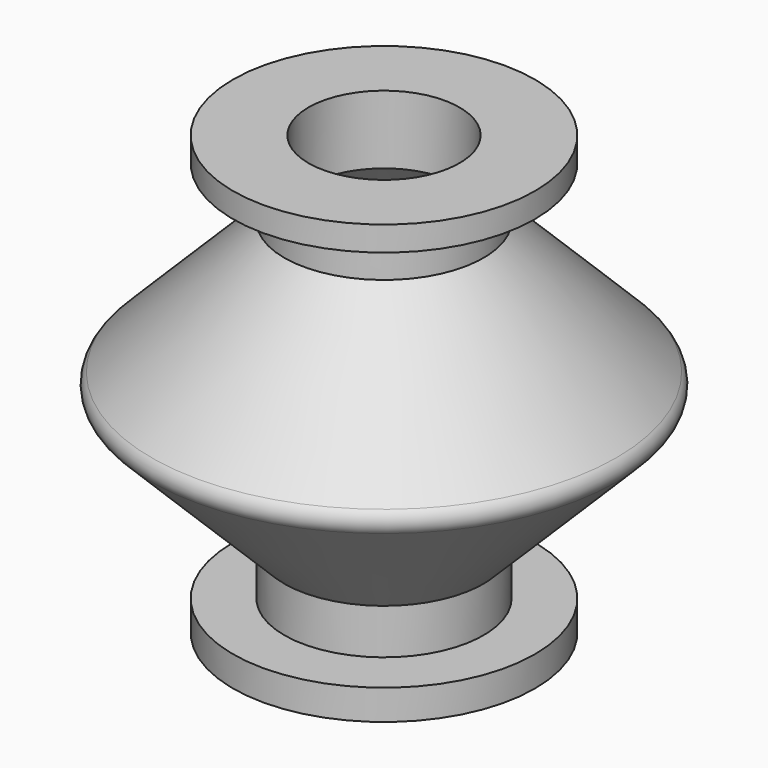
from build123d import *


with BuildPart() as f1:
    # F0 (on Front) → F1 (revolve)
    with BuildSketch(Plane.XZ):
        with BuildLine():
            Line((-2.5, 4.984315), (-2.5, 7.25))
            Line((-2.5, 7.25), (-5, 7.25))
            Line((-5, 7.25), (-5, 6.431355))
            Line((-5, 6.431355), (-3.3, 6.086036))
            Line((-3.3, 6.086036), (-3.3, 4.75))
            Line((-3.3, 4.75), (-7.696447, 0.353553))
            ThreePointArc((-7.696447, 0.353553), (-7.842893, 0), (-7.696447, -0.353553))
            Line((-7.696447, -0.353553), (-3.3, -4.75))
            Line((-3.3, -4.75), (-3.3, -6.25))
            Line((-3.3, -6.25), (-5, -6.25))
            Line((-5, -6.25), (-5, -7.25))
            Line((-5, -7.25), (-2.5, -7.25))
            Line((-2.5, -7.25), (-2.5, -4.984315))
            Line((-2.5, -4.984315), (-7.342893, -0.141421))
            ThreePointArc((-7.342893, -0.141421), (-7.401472, 0), (-7.342893, 0.141421))
            Line((-7.342893, 0.141421), (-2.5, 4.984315))
        make_face()
    revolve(axis=Axis((0, 0, -0.799421), (0, 0, -1)))


solid = f1.part
